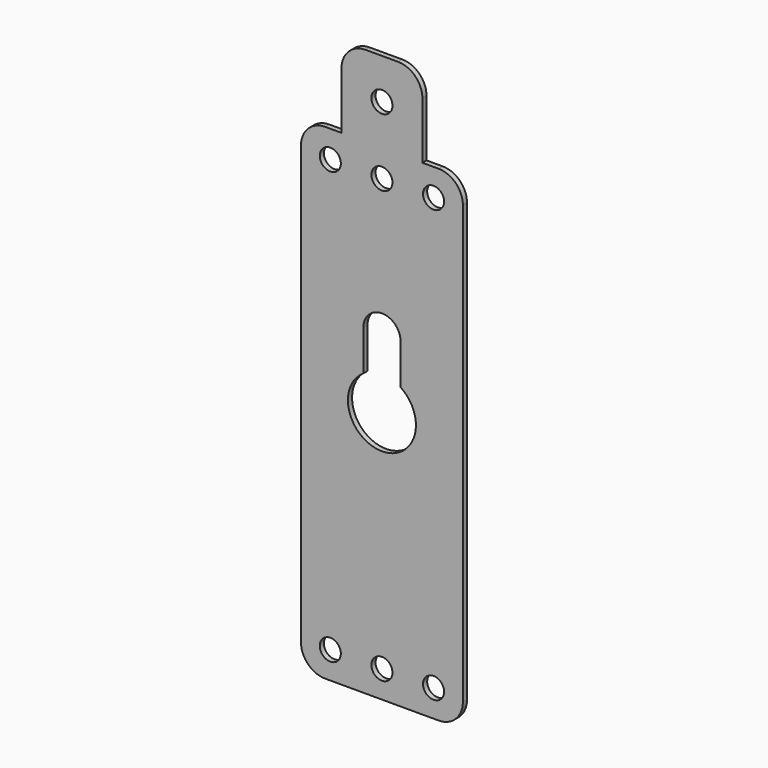
from build123d import *

# Parameters (mm, degrees)
F0_R     = 1.651
F1_DEPTH = 0.8128


with BuildPart() as f1:
    # F0 (on Front) → F1 (new body)
    with BuildSketch(Plane.XZ):
        with BuildLine():
            Line((-6.35, 36.576), (-8.89, 36.576))
            ThreePointArc((-8.89, 36.576), (-11.584077, 35.460077), (-12.7, 32.766))
            Line((-12.7, 32.766), (-12.7, -35.814))
            ThreePointArc((-12.7, -35.814), (-11.584077, -38.508077), (-8.89, -39.624))
            Line((-8.89, -39.624), (8.89, -39.624))
            ThreePointArc((8.89, -39.624), (11.584077, -38.508077), (12.7, -35.814))
            Line((12.7, -35.814), (12.7, 32.766))
            ThreePointArc((12.7, 32.766), (11.584077, 35.460077), (8.89, 36.576))
            Line((8.89, 36.576), (6.35, 36.576))
            Line((6.35, 36.576), (-6.35, 36.576))
        make_face()
        with Locations((-8.098364, -35.367535)):
            Circle(F0_R, mode=Mode.SUBTRACT)
        with Locations((0, -35.367535)):
            Circle(F0_R, mode=Mode.SUBTRACT)
        with Locations((8.098364, -35.367535)):
            Circle(F0_R, mode=Mode.SUBTRACT)
        with BuildLine():
            ThreePointArc((2.921, 4.463106), (0, -5.334), (-2.921, 4.463106))
            Line((-2.921, 4.463106), (-2.921, 10.795))
            ThreePointArc((-2.921, 10.795), (0, 13.716), (2.921, 10.795))
            Line((2.921, 10.795), (2.921, 4.463106))
        make_face(mode=Mode.SUBTRACT)
        with Locations((-8.098364, 32.319535)):
            Circle(F0_R, mode=Mode.SUBTRACT)
        with Locations((0, 32.319535)):
            Circle(F0_R, mode=Mode.SUBTRACT)
        with Locations((8.098364, 32.319535)):
            Circle(F0_R, mode=Mode.SUBTRACT)
        with BuildLine():
            Line((-6.35, 45.466), (-6.35, 36.576))
            Line((-6.35, 36.576), (6.35, 36.576))
            Line((6.35, 36.576), (6.35, 45.466))
            ThreePointArc((6.35, 45.466), (5.234077, 48.160077), (2.54, 49.276))
            Line((2.54, 49.276), (-2.54, 49.276))
            ThreePointArc((-2.54, 49.276), (-5.234077, 48.160077), (-6.35, 45.466))
        make_face()
        with Locations((0, 42.926)):
            Circle(F0_R, mode=Mode.SUBTRACT)
    extrude(amount=F1_DEPTH)


solid = f1.part
